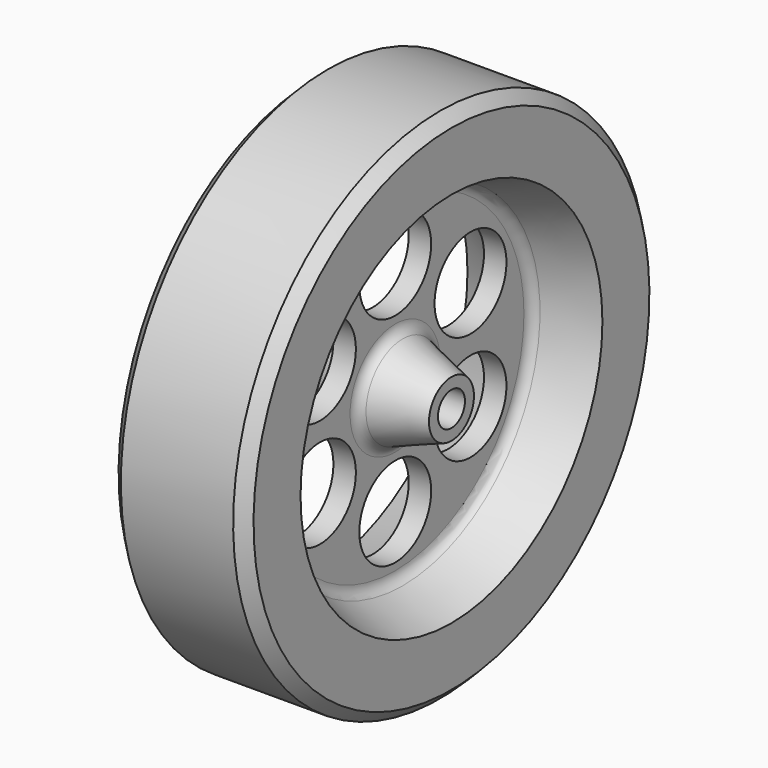
from build123d import *

# Parameters (mm, degrees)
F2_R     = 2.3876
F3_DEPTH = 19.0764
F4_SIZE  = 1.6002
F5_R     = 1.6002
F6_R     = 6.35
F7_DEPTH = 11.1262


with BuildPart() as f1:
    # F0 (on Front) → F1 (revolve)
    with BuildSketch(Plane.XZ):
        Polygon((-19.0627, 3.9751), (-19.0627, 0), (0, 0), (0, 3.9751), (-7.9502, 6.858), (-7.9502, 23.876), (0, 26.67), (0, 36.576), (-19.0754, 36.576), (-19.0754, 26.67), (-11.1252, 23.876), (-11.1252, 6.858), align=None)
    revolve(axis=Axis((-9.53135, 0, 0), (1, 0, 0)))

    # F2 (on face) → F3 (cut, through all)
    with BuildSketch(Plane.YZ):
        Circle(F2_R)
    extrude(amount=-F3_DEPTH, mode=Mode.SUBTRACT)

    # F4
    f4_edges = [f1.edges().sort_by_distance(p)[0] for p in [
        (0, 0, -36.576),
        (-19.0754, 0, -36.576),
    ]]
    chamfer(f4_edges, length=F4_SIZE)

    # F5
    f5_edges = [f1.edges().sort_by_distance(p)[0] for p in [
        (-7.9502, 0, -23.876),
        (-11.1252, 0, -23.876),
        (-7.9502, 0, -6.858),
        (-11.1252, 0, -6.858),
    ]]
    fillet(f5_edges, radius=F5_R)

    # F6 (on face) → F7 (cut, through all)
    with BuildSketch(Plane.YZ.offset(-7.9502)):
        with Locations((0, 15.361061)):
            Circle(F6_R)
        with Locations((-13.303069, 7.680531)):
            Circle(F6_R)
        with Locations((-13.303069, -7.680531)):
            Circle(F6_R)
        with Locations((0, -15.361061)):
            Circle(F6_R)
        with Locations((13.303069, -7.680531)):
            Circle(F6_R)
        with Locations((13.303069, 7.680531)):
            Circle(F6_R)
    extrude(amount=-F7_DEPTH, mode=Mode.SUBTRACT)


solid = f1.part
